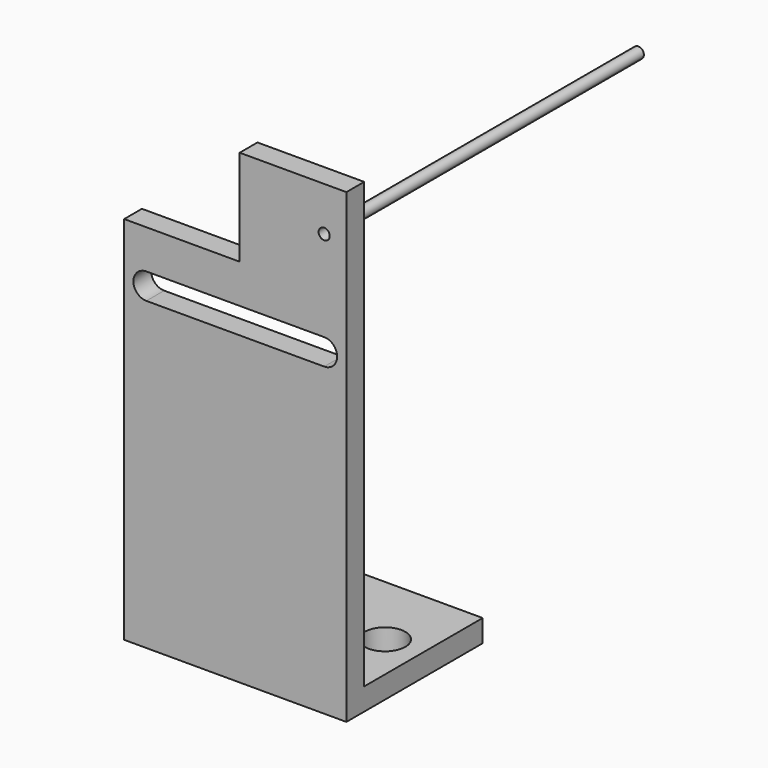
from build123d import *

# Parameters (mm, degrees)
F0_W      = 30
F0_H      = 50
F1_DEPTH  = 3
F2_W      = 30
F2_H      = 3
F3_DEPTH  = 20
F4_R      = 2.75
F5_DEPTH  = 3.001
F7_DEPTH  = 23.001
F8_W      = 14.4057143981
F8_H      = 12.954934624
F8_R      = 0.75
F9_DEPTH  = 3
F10_R     = 0.75
F11_DEPTH = 50


with BuildPart() as f1:
    # F0 (on Front) → F1 (new body)
    with BuildSketch(Plane.XZ):
        with Locations((2.5, 25)):
            Rectangle(F0_W, F0_H)
    extrude(amount=F1_DEPTH)

    # F2 (on face) → F3 (join)
    with BuildSketch(Plane(origin=(0, 0, 0), x_dir=(-1, 0, 0), z_dir=(0, 1, 0))):
        with Locations((-2.5, 1.5)):
            Rectangle(F2_W, F2_H)
    extrude(amount=F3_DEPTH)

    # F4 (on face) → F5 (cut, through all)
    with BuildSketch(Plane.XY.offset(3)):
        with Locations((12.5, 9.7589399666)):
            Circle(F4_R)
        with Locations((-7.5, 9.7589399666)):
            Circle(F4_R)
    extrude(amount=-F5_DEPTH, mode=Mode.SUBTRACT)

    # F6 (on face) → F7 (cut, through all)
    with BuildSketch(Plane.XZ.offset(3)):
        with BuildLine():
            Line((14.5, 44.75), (-9.5, 44.75))
            ThreePointArc((-9.5, 44.75), (-11.25, 43), (-9.5, 41.25))
            Line((-9.5, 41.25), (14.5, 41.25))
            ThreePointArc((14.5, 41.25), (16.25, 43), (14.5, 44.75))
        make_face()
    extrude(amount=-F7_DEPTH, mode=Mode.SUBTRACT)

    # F8 (on face) → F9 (join, through all)
    with BuildSketch(Plane(origin=(0, 0, 0), x_dir=(-1, 0, 0), z_dir=(0, 1, 0))):
        with Locations((-10.2971428009, 56.477467312)):
            Rectangle(F8_W, F8_H)
        with Locations((-14.5, 57)):
            Circle(F8_R, mode=Mode.SUBTRACT)
    extrude(amount=-F9_DEPTH)


with BuildPart() as f11:
    # F10 (on face) → F11 (new body)
    with BuildSketch(Plane(origin=(0, 0, 0), x_dir=(-1, 0, 0), z_dir=(0, 1, 0))):
        with Locations((-14.5, 57)):
            Circle(F10_R)
    extrude(amount=F11_DEPTH)


solid = Compound([f1.part, f11.part])
